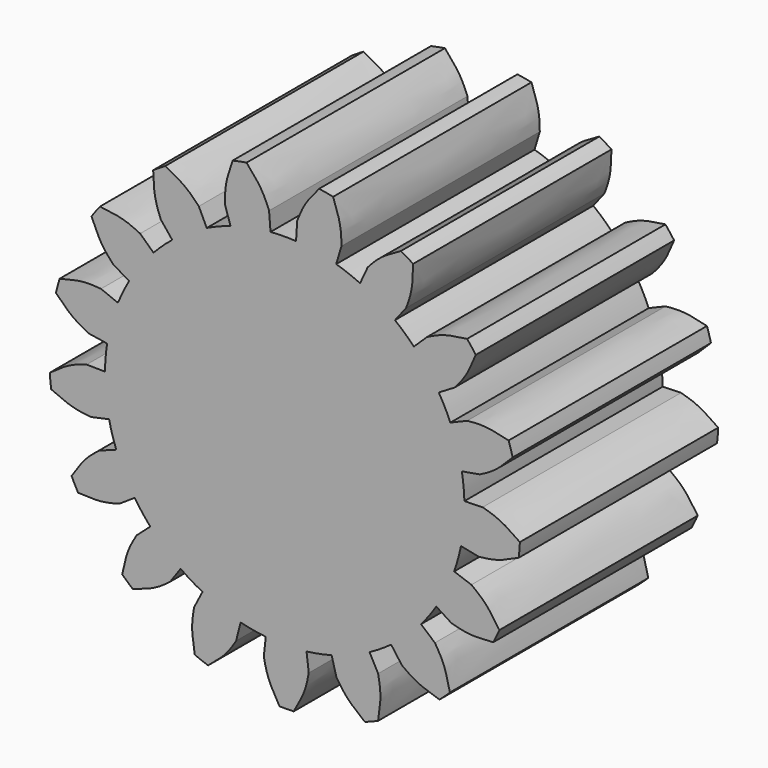
from build123d import *

# Parameters (mm, degrees)
F1_DEPTH = 25
F3_COUNT = 17
F4_DEPTH = 25
F5_DEPTH = 25
F6_COUNT = 17


with BuildPart() as f1:
    # F0 (on Front) → F1 (new body)
    with BuildSketch(Plane.XZ):
        with BuildLine():
            add(Edge.make_bspline(
                [(-3.8440621441, 23.4368446305), (-3.425284392, 22.9564936235), (-2.6524776716, 22.070060463), (-2.0002718998, 20.9500295932), (-1.6959063006, 20.1753365213), (-1.609207412, 19.9786819531), (-1.5772009947, 19.9060834657)],
                knots=[0, 0, 0, 0, 0.3466732177, 0.6397460016, 0.8670059099, 1, 1, 1, 1], degree=3))
            ThreePointArc((-3.8440621441, 23.4368446305), (-4.5504851983, 23.3099889417), (-5.2527525556, 23.1618455782))
            add(Edge.make_bspline(
                [(-5.2527525556, 23.1618455782), (-5.460123692, 22.5592602255), (-5.842803543, 21.4472574796), (-6.0258811063, 20.1641658524), (-6.0165384547, 19.3318795504), (-6.0229102071, 19.1170560944), (-6.0252624513, 19.037750243)],
                knots=[0, 0, 0, 0, 0.3466732177, 0.6397460016, 0.8670059099, 1, 1, 1, 1], degree=3))
            ThreePointArc((-6.0252624513, 19.037750243), (-3.8259460606, 19.5985167465), (-1.5772009947, 19.9060834657))
        make_face()
        with BuildLine():
            add(Edge.make_bspline(
                [(-3.8440621441, 23.4368446305), (-3.425284392, 22.9564936235), (-2.6524776716, 22.070060463), (-2.0002718998, 20.9500295932), (-1.6959063006, 20.1753365213), (-1.609207412, 19.9786819531), (-1.5772009947, 19.9060834657)],
                knots=[0, 0, 0, 0, 0.3466732177, 0.6397460016, 0.8670059099, 1, 1, 1, 1], degree=3))
            ThreePointArc((-3.8440621441, 23.4368446305), (-4.5504851983, 23.3099889417), (-5.2527525556, 23.1618455782))
            add(Edge.make_bspline(
                [(-5.2527525556, 23.1618455782), (-5.460123692, 22.5592602255), (-5.842803543, 21.4472574796), (-6.0258811063, 20.1641658524), (-6.0165384547, 19.3318795504), (-6.0229102071, 19.1170560944), (-6.0252624513, 19.037750243)],
                knots=[0, 0, 0, 0, 0.3466732177, 0.6397460016, 0.8670059099, 1, 1, 1, 1], degree=3))
            ThreePointArc((-6.0252624513, 19.037750243), (-3.8259460606, 19.5985167465), (-1.5772009947, 19.9060834657))
        make_face()
        with BuildLine():
            add(Edge.make_bspline(
                [(-3.8440621441, 23.4368446305), (-3.425284392, 22.9564936235), (-2.6524776716, 22.070060463), (-2.0002718998, 20.9500295932), (-1.6959063006, 20.1753365213), (-1.609207412, 19.9786819531), (-1.5772009947, 19.9060834657)],
                knots=[0, 0, 0, 0, 0.3466732177, 0.6397460016, 0.8670059099, 1, 1, 1, 1], degree=3))
            ThreePointArc((-3.8440621441, 23.4368446305), (-4.5504851983, 23.3099889417), (-5.2527525556, 23.1618455782))
            add(Edge.make_bspline(
                [(-5.2527525556, 23.1618455782), (-5.460123692, 22.5592602255), (-5.842803543, 21.4472574796), (-6.0258811063, 20.1641658524), (-6.0165384547, 19.3318795504), (-6.0229102071, 19.1170560944), (-6.0252624513, 19.037750243)],
                knots=[0, 0, 0, 0, 0.3466732177, 0.6397460016, 0.8670059099, 1, 1, 1, 1], degree=3))
            ThreePointArc((-6.0252624513, 19.037750243), (-3.8259460606, 19.5985167465), (-1.5772009947, 19.9060834657))
        make_face()
    extrude(amount=F1_DEPTH)


with BuildPart() as f3_1:
    # F3: instance of F1
    add(f1.part.rotate(Axis((0, -19.062500447, 0), (0, -1, 0)), 1 * 360 / F3_COUNT))


with BuildPart() as f3_2:
    # F3: instance of F1
    add(f1.part.rotate(Axis((0, -19.062500447, 0), (0, -1, 0)), 2 * 360 / F3_COUNT))


with BuildPart() as f3_3:
    # F3: instance of F1
    add(f1.part.rotate(Axis((0, -19.062500447, 0), (0, -1, 0)), 3 * 360 / F3_COUNT))


with BuildPart() as f3_4:
    # F3: instance of F1
    add(f1.part.rotate(Axis((0, -19.062500447, 0), (0, -1, 0)), 4 * 360 / F3_COUNT))


with BuildPart() as f3_5:
    # F3: instance of F1
    add(f1.part.rotate(Axis((0, -19.062500447, 0), (0, -1, 0)), 5 * 360 / F3_COUNT))


with BuildPart() as f3_6:
    # F3: instance of F1
    add(f1.part.rotate(Axis((0, -19.062500447, 0), (0, -1, 0)), 6 * 360 / F3_COUNT))


with BuildPart() as f3_7:
    # F3: instance of F1
    add(f1.part.rotate(Axis((0, -19.062500447, 0), (0, -1, 0)), 7 * 360 / F3_COUNT))


with BuildPart() as f3_8:
    # F3: instance of F1
    add(f1.part.rotate(Axis((0, -19.062500447, 0), (0, -1, 0)), 8 * 360 / F3_COUNT))


with BuildPart() as f3_9:
    # F3: instance of F1
    add(f1.part.rotate(Axis((0, -19.062500447, 0), (0, -1, 0)), 9 * 360 / F3_COUNT))


with BuildPart() as f3_10:
    # F3: instance of F1
    add(f1.part.rotate(Axis((0, -19.062500447, 0), (0, -1, 0)), 10 * 360 / F3_COUNT))


with BuildPart() as f3_11:
    # F3: instance of F1
    add(f1.part.rotate(Axis((0, -19.062500447, 0), (0, -1, 0)), 11 * 360 / F3_COUNT))


with BuildPart() as f3_12:
    # F3: instance of F1
    add(f1.part.rotate(Axis((0, -19.062500447, 0), (0, -1, 0)), 12 * 360 / F3_COUNT))


with BuildPart() as f3_13:
    # F3: instance of F1
    add(f1.part.rotate(Axis((0, -19.062500447, 0), (0, -1, 0)), 13 * 360 / F3_COUNT))


with BuildPart() as f3_14:
    # F3: instance of F1
    add(f1.part.rotate(Axis((0, -19.062500447, 0), (0, -1, 0)), 14 * 360 / F3_COUNT))


with BuildPart() as f3_15:
    # F3: instance of F1
    add(f1.part.rotate(Axis((0, -19.062500447, 0), (0, -1, 0)), 15 * 360 / F3_COUNT))


with BuildPart() as f3_16:
    # F3: instance of F1
    add(f1.part.rotate(Axis((0, -19.062500447, 0), (0, -1, 0)), 16 * 360 / F3_COUNT))


with BuildPart() as f4:
    # F0 (on Front) → F4 (new body)
    with BuildSketch(Plane.XZ):
        with BuildLine():
            ThreePointArc((18.125, 0), (12.2997552339, 13.3128376459), (-1.4315954411, 18.068374567))
            Line((-1.4315954411, 18.068374567), (0, 0))
            Line((0, 0), (-5.4690164955, 17.2802049633))
            ThreePointArc((-5.4690164955, 17.2802049633), (-10.7095681757, -14.6226117534), (18.125, 0))
        make_face()
        with BuildLine():
            Line((0, 0), (-1.4315954411, 18.068374567))
            ThreePointArc((-1.4315954411, 18.068374567), (-3.472738704, 17.7892020871), (-5.4690164955, 17.2802049633))
            Line((-5.4690164955, 17.2802049633), (0, 0))
        make_face()
    extrude(amount=F4_DEPTH)


with BuildPart() as f1_1:
    add(f1.part)

    add(f4.part)  # F5 merges F4
    # F0 (on Front) → F5 (join)
    with BuildSketch(Plane.XZ):
        with BuildLine():
            Line((-1.4315954411, 18.068374567), (-1.5772009947, 19.9060834657))
            ThreePointArc((-1.5772009947, 19.9060834657), (-3.8259460606, 19.5985167465), (-6.0252624513, 19.037750243))
            Line((-6.0252624513, 19.037750243), (-5.4690164955, 17.2802049633))
            ThreePointArc((-5.4690164955, 17.2802049633), (-3.472738704, 17.7892020871), (-1.4315954411, 18.068374567))
        make_face()
    extrude(amount=F5_DEPTH)



with BuildPart() as f1_2:
    add(f1_1.part)

    add(f3_1.part)  # F6 merges F3_1

    add(f3_2.part)  # F6 merges F3_2

    add(f3_3.part)  # F6 merges F3_3

    add(f3_4.part)  # F6 merges F3_4

    add(f3_5.part)  # F6 merges F3_5

    add(f3_6.part)  # F6 merges F3_6

    add(f3_7.part)  # F6 merges F3_7

    add(f3_8.part)  # F6 merges F3_8

    add(f3_9.part)  # F6 merges F3_9

    add(f3_10.part)  # F6 merges F3_10

    add(f3_11.part)  # F6 merges F3_11

    add(f3_12.part)  # F6 merges F3_12

    add(f3_13.part)  # F6 merges F3_13

    add(f3_14.part)  # F6 merges F3_14

    add(f3_15.part)  # F6 merges F3_15

    add(f3_16.part)  # F6 merges F3_16
    # F6: F1 ×17 about axis
    f6_axis = Axis((0, -19.062500447, 0), (0, -1, 0))
    for i in range(1, F6_COUNT):
        add(f1_1.part.rotate(f6_axis, i * 360 / F6_COUNT))


solid = f1_2.part
